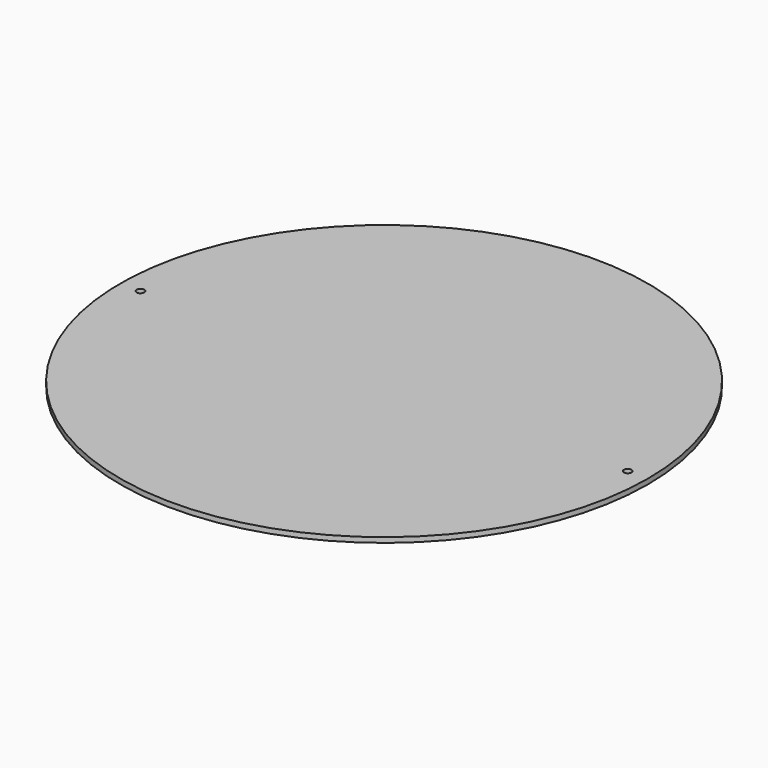
from build123d import *

# Parameters (mm, degrees)
F0_R     = 165.1
F0_R_2   = 2.38125
F0_R_3   = 139.7
F1_DEPTH = 3.175


with BuildPart() as f1:
    # F0 (on Top) → F1 (new body)
    with BuildSketch(Plane.XY):
        Circle(F0_R)
        with Locations((-152.4, 0)):
            Circle(F0_R_2, mode=Mode.SUBTRACT)
        Circle(F0_R_3, mode=Mode.SUBTRACT)
        with Locations((152.4, 0)):
            Circle(F0_R_2, mode=Mode.SUBTRACT)
        Circle(F0_R_3)
    extrude(amount=F1_DEPTH)


solid = f1.part
